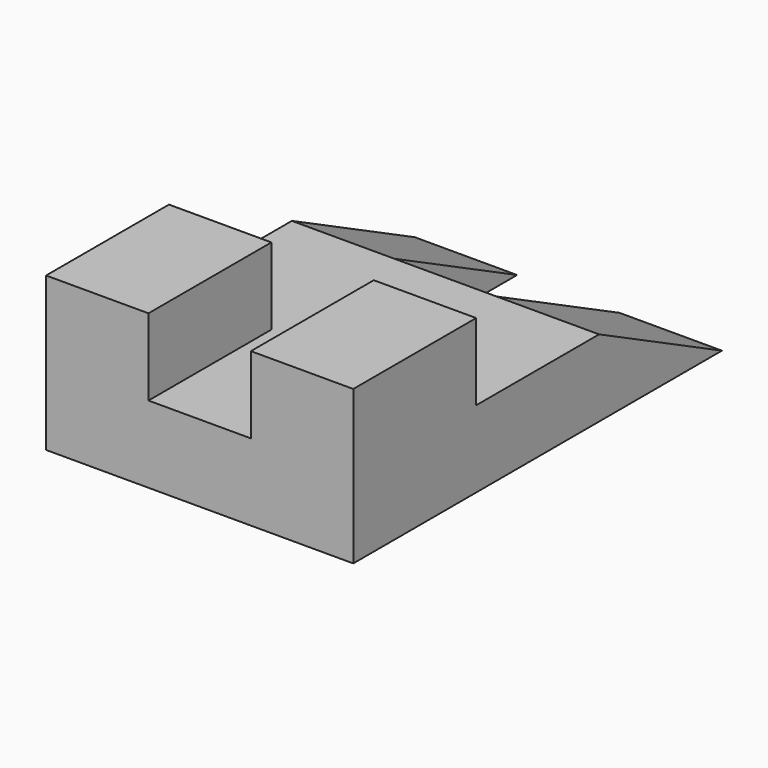
from build123d import *

# Parameters (mm, degrees)
F0_W      = 60
F0_H      = 90
F1_DEPTH  = 15
F2_W      = 20
F2_H      = 30
F3_DEPTH  = 15
F5_W      = 20
F5_H      = 30
F6_DEPTH  = 15
F8_DEPTH  = 25
F10_DEPTH = 25


with BuildPart() as f1:
    # F0 (on Top) → F1 (new body)
    with BuildSketch(Plane.XY):
        with Locations((-29.636262, 17.979155)):
            Rectangle(F0_W, F0_H)
    extrude(amount=F1_DEPTH)

    # F2 (on face) → F3 (join)
    with BuildSketch(Plane.XY.offset(15)):
        with Locations((-49.636262, -12.020845)):
            Rectangle(F2_W, F2_H)
        with Locations((-9.636262, -12.020845)):
            Rectangle(F2_W, F2_H)
    extrude(amount=F3_DEPTH)

    # F5 (on face) → F6 (cut)
    with BuildSketch(Plane.XY.offset(15)):
        with Locations((-29.636262, 47.979155)):
            Rectangle(F5_W, F5_H)
    extrude(amount=-F6_DEPTH, mode=Mode.SUBTRACT)

    # F7 (on face) → F8 (cut)
    with BuildSketch(Plane(origin=(-59.636262, 0, 0), x_dir=(0, -1, 0), z_dir=(-1, 0, 0))):
        Polygon((-62.979155, 15), (-62.979155, 0), (-32.979155, 15), (-60.437772, 15), align=None)
    extrude(amount=-F8_DEPTH, mode=Mode.SUBTRACT)

    # F9 (on face) → F10 (cut)
    with BuildSketch(Plane.YZ.offset(0.363738)):
        Polygon((32.979155, 15), (62.979155, 0), (62.979155, 15), align=None)
    extrude(amount=-F10_DEPTH, mode=Mode.SUBTRACT)


solid = f1.part
